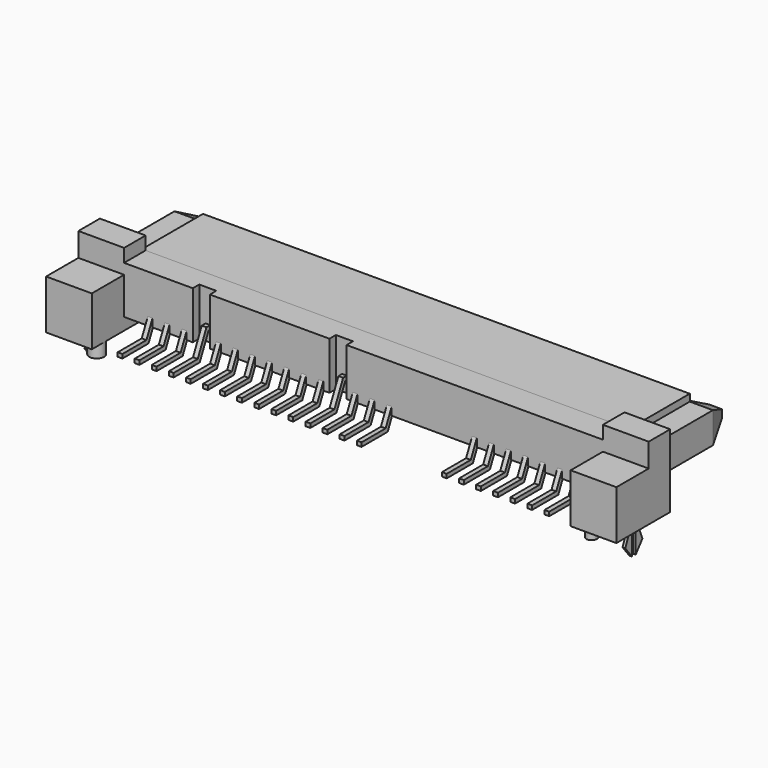
from build123d import *

# Parameters (mm, degrees)
SKETCH002_W      = 2.12
SKETCH002_H      = 2.3
PAD001_DEPTH     = 7.4
POCKET002_DEPTH  = 3
POCKET003_DEPTH  = 4
SKETCH003_W      = 3.4
SKETCH003_H      = 5.42
PAD002_DEPTH     = 5
SKETCH004_W      = 3.4
SKETCH004_H      = 1.76
POCKET001_DEPTH  = 3
PAD006_DEPTH     = 0.1
PAD007_DEPTH     = 3.54
PAD005_DEPTH     = 0.175
ARRAY001_X_COUNT = 7
ARRAY001_X_PITCH = 1.27
PAD004_DEPTH     = 0.175
ARRAY_X_COUNT    = 15
ARRAY_X_PITCH    = 1.27
SKETCH005_R      = 0.55
SKETCH005_R_2    = 0.4
PAD003_DEPTH     = 1
SKETCH_W         = 36.19
SKETCH_H         = 3.5
PAD_DEPTH        = 5.7
SKETCH001_W      = 1.11
SKETCH001_H      = 2.4
SKETCH001_W_2    = 0.4
SKETCH001_H_2    = 0.7
POCKET_DEPTH     = 6


with BuildPart() as pocket003:
    # Sketch002 → Pad001 (new body)
    with BuildSketch(Plane.XZ):
        with Locations((2.045, 2.75)):
            Rectangle(SKETCH002_W, SKETCH002_H)
    extrude(amount=-PAD001_DEPTH)

    # Sketch010 → Pocket002 (cut)
    with BuildSketch(Plane(origin=(3.105, 0, 0), x_dir=(0, 0, 1), z_dir=(1, 0, 0))):
        Polygon((1.6, -5.7), (1.6, -7.4), (2.45, -7.4), align=None)
        Polygon((3.05, -7.4), (3.9, -7.4), (3.9, -5.7), align=None)
    extrude(amount=-POCKET002_DEPTH, mode=Mode.SUBTRACT)

    # Sketch011 → Pocket003 (cut)
    with BuildSketch(Plane(origin=(0, 0, 3.9), x_dir=(-1, 0, 0), z_dir=(0, 0, 1))):
        Polygon((-0.985, -5.7), (-0.985, -7.4), (-1.675, -7.4), align=None)
        Polygon((-3.105, -5.7), (-3.105, -7.4), (-2.605, -7.4), align=None)
    extrude(amount=-POCKET003_DEPTH, mode=Mode.SUBTRACT)


with BuildPart() as pocket001:
    # Sketch003 → Pad002 (new body)
    with BuildSketch(Plane.XZ):
        with Locations((1.7, 2.71)):
            Rectangle(SKETCH003_W, SKETCH003_H)
    extrude(amount=PAD002_DEPTH)

    # Sketch004 → Pocket001 (cut)
    with BuildSketch(Plane.XZ.offset(5)):
        with Locations((1.7, 4.54)):
            Rectangle(SKETCH004_W, SKETCH004_H)
    extrude(amount=-POCKET001_DEPTH, mode=Mode.SUBTRACT)


with BuildPart() as part_mirroring001:
    # Part__Mirroring001: instance of Pocket001
    add(pocket001.part.mirror(Plane(origin=(21.2, 0, 0), x_dir=(0, -1, 0), z_dir=(1, 0, 0))))


with BuildPart() as pad006:
    # Sketch008 → Pad006 (new body, symmetric)
    with BuildSketch(Plane.YZ.offset(1.2)):
        Polygon((-2.5, 0), (-2.5, -0.873557), (-2.8, -1.597559), (-2.166667, -2.4), (-2.166667, -0.415514), (-1.833333, -0.415514), (-1.833333, -2.4), (-1.2, -1.597559), (-1.5, -0.873557), (-1.5, 0), align=None)
    extrude(amount=PAD006_DEPTH, both=True)


with BuildPart() as part_mirroring002:
    # Part__Mirroring002: instance of Pad006
    add(pad006.part.mirror(Plane(origin=(21.2, 0, 0), x_dir=(0, -1, 0), z_dir=(1, 0, 0))))


with BuildPart() as pad007:
    # Sketch009 → Pad007 (new body)
    with BuildSketch(Plane.XY.offset(0.9)):
        Polygon((3.105, 0), (3.105, -2), (8.508, -2), (8.508, -1.4), (9.778, -1.4), (9.778, -2), (18.668, -2), (18.668, -1.4), (19.938, -1.4), (19.938, -2), (39.295, -2), (39.295, 0), align=None)
    extrude(amount=PAD007_DEPTH)


with BuildPart() as array001:
    # Sketch007 → Pad005 (new body, symmetric)
    with BuildSketch(Plane.YZ.offset(29.449)):
        Polygon((-4.8, 0), (-2.370415, 0), (-1.556504, 1.745438), (0, 1.745438), (0, 2.045438), (-1.747625, 2.045438), (-2.561536, 0.3), (-4.8, 0.3), align=None)
        Polygon((3.35, 2.42), (3.55, 2.42), (3.8, 2.67), (4.05, 2.42), (4.3, 2.67), (4.55, 2.42), (4.75, 2.42), (4.3, 2.87), (4.05, 2.62), (3.8, 2.87), align=None)
    extrude(amount=PAD005_DEPTH, both=True)

    # Array001 X: Array001 ×7


with BuildPart() as array001_1:
    add(array001.part)
    with Locations(*[(i * ARRAY001_X_PITCH, 0, 0) for i in range(1, ARRAY001_X_COUNT)]):
        add(array001.part)


with BuildPart() as array:
    # Sketch006 → Pad004 (new body, symmetric)
    with BuildSketch(Plane.YZ.offset(5.337)):
        Polygon((-4.8, 0), (-2.370415, 0), (-1.556504, 1.745438), (0, 1.745438), (0, 2.045438), (-1.747625, 2.045438), (-2.561536, 0.3), (-4.8, 0.3), align=None)
        Polygon((3.35, 2.42), (3.55, 2.42), (3.8, 2.67), (4.05, 2.42), (4.3, 2.67), (4.55, 2.42), (4.75, 2.42), (4.3, 2.87), (4.05, 2.62), (3.8, 2.87), align=None)
    extrude(amount=PAD004_DEPTH, both=True)

    # Array X: Array ×15


with BuildPart() as array_1:
    add(array.part)
    with Locations(*[(i * ARRAY_X_PITCH, 0, 0) for i in range(1, ARRAY_X_COUNT)]):
        add(array.part)


with BuildPart() as pad003:
    # Sketch005 → Pad003 (new body)
    with BuildSketch(Plane.XY):
        with Locations((2.8, -3.8)):
            Circle(SKETCH005_R)
        with Locations((39.6, -3.8)):
            Circle(SKETCH005_R_2)
    extrude(amount=-PAD003_DEPTH)


with BuildPart() as pocket:
    # Sketch → Pad (new body)
    with BuildSketch(Plane.XZ):
        with Locations((21.2, 2.67)):
            Rectangle(SKETCH_W, SKETCH_H)
    extrude(amount=-PAD_DEPTH)

    # Sketch001 → Pocket (cut)
    with BuildSketch(Plane.XZ):
        Polygon((38.045, 3.82), (27.335, 3.82), (27.335, 1.42), (28.785, 1.42), (28.785, 2.42), (38.045, 2.42), align=None)
        Polygon((25.225, 1.42), (25.225, 3.82), (4.355, 3.82), (4.355, 2.42), (23.775, 2.42), (23.775, 1.42), align=None)
        with Locations((26.28, 2.62)):
            Rectangle(SKETCH001_W, SKETCH001_H)
        with Locations((29.4475, 1.77)):
            Rectangle(SKETCH001_W_2, SKETCH001_H_2)
        with Locations((30.7175, 1.77)):
            Rectangle(SKETCH001_W_2, SKETCH001_H_2)
        with Locations((31.9875, 1.77)):
            Rectangle(SKETCH001_W_2, SKETCH001_H_2)
        with Locations((33.2575, 1.77)):
            Rectangle(SKETCH001_W_2, SKETCH001_H_2)
        with Locations((34.5275, 1.77)):
            Rectangle(SKETCH001_W_2, SKETCH001_H_2)
        with Locations((35.7975, 1.77)):
            Rectangle(SKETCH001_W_2, SKETCH001_H_2)
        with Locations((37.0675, 1.77)):
            Rectangle(SKETCH001_W_2, SKETCH001_H_2)
        with Locations((23.1125, 1.77)):
            Rectangle(SKETCH001_W_2, SKETCH001_H_2)
        with Locations((21.8425, 1.77)):
            Rectangle(SKETCH001_W_2, SKETCH001_H_2)
        with Locations((20.5725, 1.77)):
            Rectangle(SKETCH001_W_2, SKETCH001_H_2)
        with Locations((19.3025, 1.77)):
            Rectangle(SKETCH001_W_2, SKETCH001_H_2)
        with Locations((18.0325, 1.77)):
            Rectangle(SKETCH001_W_2, SKETCH001_H_2)
        with Locations((16.7625, 1.77)):
            Rectangle(SKETCH001_W_2, SKETCH001_H_2)
        with Locations((15.4925, 1.77)):
            Rectangle(SKETCH001_W_2, SKETCH001_H_2)
        with Locations((14.2225, 1.77)):
            Rectangle(SKETCH001_W_2, SKETCH001_H_2)
        with Locations((12.9525, 1.77)):
            Rectangle(SKETCH001_W_2, SKETCH001_H_2)
        with Locations((11.6825, 1.77)):
            Rectangle(SKETCH001_W_2, SKETCH001_H_2)
        with Locations((10.4125, 1.77)):
            Rectangle(SKETCH001_W_2, SKETCH001_H_2)
        with Locations((9.1425, 1.77)):
            Rectangle(SKETCH001_W_2, SKETCH001_H_2)
        with Locations((7.8725, 1.77)):
            Rectangle(SKETCH001_W_2, SKETCH001_H_2)
        with Locations((6.6025, 1.77)):
            Rectangle(SKETCH001_W_2, SKETCH001_H_2)
        with Locations((5.3325, 1.77)):
            Rectangle(SKETCH001_W_2, SKETCH001_H_2)
    extrude(amount=-POCKET_DEPTH, mode=Mode.SUBTRACT)


with BuildPart() as obj1:
    # Part__Mirroring: instance of Pocket003
    add(pocket003.part.mirror(Plane(origin=(21, 0, 0), x_dir=(0, -1, 0), z_dir=(1, 0, 0))))

    # Fusion: union Pocket003, Pocket001, Part__Mirroring001, Pad006, Part__Mirroring002, Pad007, Array001, Array, Pad003, Pocket
    add(pocket003.part)
    add(pocket001.part)
    add(part_mirroring001.part)
    add(pad006.part)
    add(part_mirroring002.part)
    add(pad007.part)
    add(array001_1.part)
    add(array_1.part)
    add(pad003.part)
    add(pocket.part)


with BuildPart() as obj1_1:
    # Fusion placement: moved
    add(obj1.part.moved(Location((-21.2, 3.145, 0))))


solid = obj1_1.part
